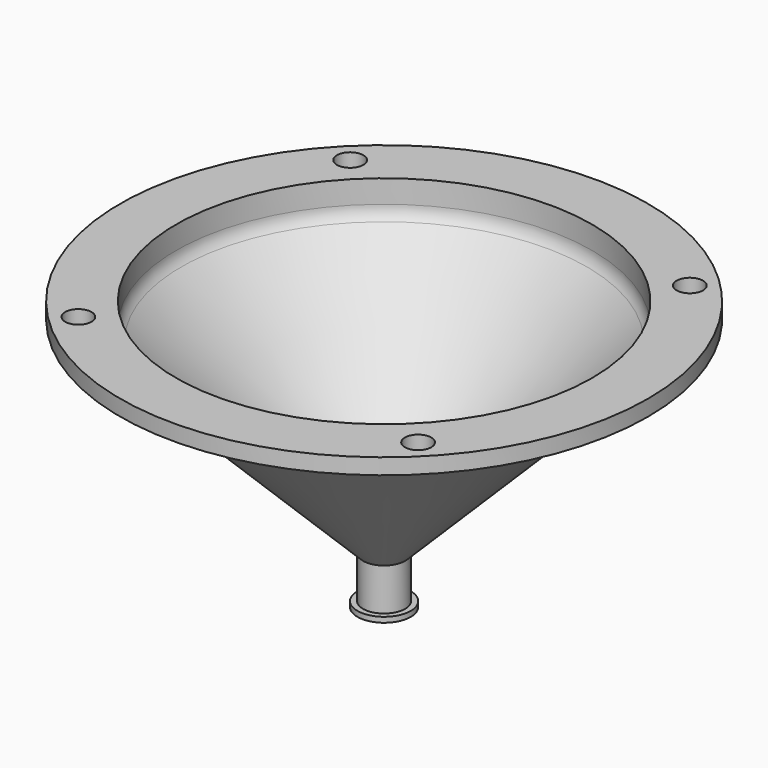
from build123d import *

# Parameters (mm, degrees)
F0_R      = 250
F0_R_2    = 200
F1_DEPTH  = 15
F5_R      = 20
F6_DEPTH  = 40
F7_R      = 25.25
F8_DEPTH  = 5
F9_R      = 12.5
F10_DEPTH = 15


with BuildPart() as f1:
    # F0 (on Top) → F1 (new body)
    with BuildSketch(Plane.XY):
        Circle(F0_R)
        Circle(F0_R_2, mode=Mode.SUBTRACT)
    extrude(amount=F1_DEPTH)

    # F2 (on Front) → F3 (revolve)
    with BuildSketch(Plane.XZ):
        with BuildLine():
            Line((200, -6.715729), (200, 15))
            Line((200, 15), (197, 15))
            Line((197, 15), (197, -6.715729))
            ThreePointArc((197, -6.715729), (195.705952, -13.221347), (192.020815, -18.736544))
            Line((192.020815, -18.736544), (18.757359, -192))
            Line((18.757359, -192), (0, -192))
            Line((0, -192), (0, -195))
            Line((0, -195), (20, -195))
            Line((20, -195), (194.142136, -20.857864))
            ThreePointArc((194.142136, -20.857864), (198.477591, -14.369397), (200, -6.715729))
        make_face()
    revolve(axis=Axis((0, 0, -193.5), (0, 0, -1)))

    # F5 (on face) → F6 (join)
    with BuildSketch(Plane(origin=(0, 0, -195), x_dir=(1, 0, 0), z_dir=(0, 0, -1))):
        Circle(F5_R)
    extrude(amount=F6_DEPTH)

    # F7 (on face) → F8 (join)
    with BuildSketch(Plane(origin=(0, 0, -235), x_dir=(1, 0, 0), z_dir=(0, 0, -1))):
        Circle(F7_R)
    extrude(amount=F8_DEPTH)

    # F9 (on face) → F10 (cut)
    with BuildSketch(Plane.XY.offset(15)):
        with Locations((160.866793, 160.866793)):
            Circle(F9_R)
        with Locations((-160.866793, 160.866793)):
            Circle(F9_R)
        with Locations((-160.866793, -160.866793)):
            Circle(F9_R)
        with Locations((160.866793, -160.866793)):
            Circle(F9_R)
    extrude(amount=-F10_DEPTH, mode=Mode.SUBTRACT)


solid = f1.part
